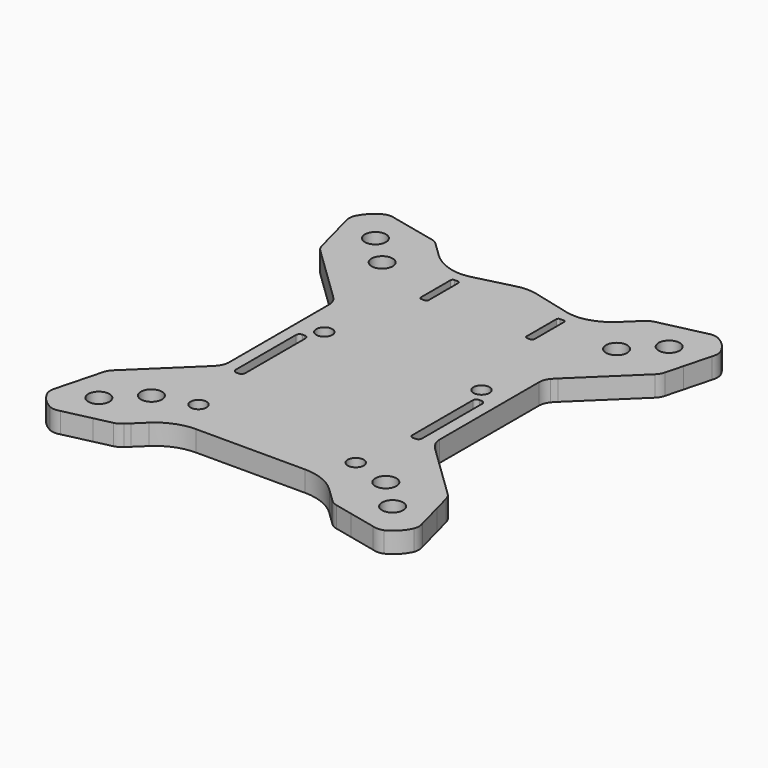
from build123d import *

# Parameters (mm, degrees)
F0_R     = 2.05
F0_R_2   = 1.55
F1_DEPTH = 4


with BuildPart() as f1:
    # F0 (on Top) → F1 (new body)
    with BuildSketch(Plane.XY):
        with BuildLine():
            ThreePointArc((20.225759, -40.726859), (20.88342, -41.207836), (21.646246, -41.494115))
            Line((21.646246, -41.494115), (25.044904, -42.264138))
            Line((25.044904, -42.264138), (30.325992, -43.460657))
            ThreePointArc((30.325992, -43.460657), (31.363938, -43.61615), (32.391927, -43.404607))
            ThreePointArc((32.391927, -43.404607), (34.248228, -42.031919), (35.554256, -40.128129))
            ThreePointArc((35.554256, -40.128129), (35.729228, -39.093288), (35.537043, -38.061505))
            Line((35.537043, -38.061505), (34.154086, -32.826147))
            Line((34.154086, -32.826147), (33.264079, -29.456918))
            ThreePointArc((33.264079, -29.456918), (32.950942, -28.704719), (32.446956, -28.06452))
            Line((32.446956, -28.06452), (21.831277, -17.818679))
            Line((21.831277, -17.818679), (21.048334, -16.865171))
            ThreePointArc((21.048334, -16.865171), (20.542366, -15.972423), (20.366866, -14.961383))
            Line((20.366866, -14.961383), (20.366866, 9.177489))
            ThreePointArc((20.366866, 9.177489), (20.542466, 10.188808), (21.04871, 11.081736))
            ThreePointArc((21.04871, 11.081736), (21.427756, 11.516935), (21.831277, 11.929542))
            Line((21.831277, 11.929542), (32.446956, 22.175383))
            ThreePointArc((32.446956, 22.175383), (32.950942, 22.815582), (33.264079, 23.567781))
            Line((33.264079, 23.567781), (34.154086, 26.93701))
            Line((34.154086, 26.93701), (35.537043, 32.172368))
            ThreePointArc((35.537043, 32.172368), (35.729228, 33.204151), (35.554256, 34.238992))
            ThreePointArc((35.554256, 34.238992), (34.248228, 36.142781), (32.391927, 37.515469))
            ThreePointArc((32.391927, 37.515469), (31.363938, 37.727013), (30.325992, 37.57152))
            Line((30.325992, 37.57152), (25.044904, 36.375001))
            Line((25.044904, 36.375001), (21.646246, 35.604977))
            ThreePointArc((21.646246, 35.604977), (20.88342, 35.318699), (20.225759, 34.837722))
            Line((20.225759, 34.837722), (19.467341, 34.105726))
            Line((19.467341, 34.105726), (17.506323, 32.213028))
            ThreePointArc((17.506323, 32.213028), (15.698461, 30.828478), (13.62424, 29.888823))
            ThreePointArc((13.62424, 29.888823), (11.43078, 29.508538), (9.217452, 29.74742))
            Line((9.217452, 29.74742), (1.956759, 31.578982))
            ThreePointArc((1.956759, 31.578982), (0, 31.821979), (-1.956759, 31.578982))
            Line((-1.956759, 31.578982), (-9.217452, 29.74742))
            ThreePointArc((-9.217452, 29.74742), (-11.43078, 29.508538), (-13.62424, 29.888823))
            ThreePointArc((-13.62424, 29.888823), (-15.698461, 30.828478), (-17.506323, 32.213028))
            Line((-17.506323, 32.213028), (-19.467341, 34.105726))
            Line((-19.467341, 34.105726), (-20.225759, 34.837722))
            ThreePointArc((-20.225759, 34.837722), (-20.88342, 35.318699), (-21.646246, 35.604977))
            Line((-21.646246, 35.604977), (-25.044904, 36.375001))
            Line((-25.044904, 36.375001), (-30.325992, 37.57152))
            ThreePointArc((-30.325992, 37.57152), (-31.363938, 37.727013), (-32.391927, 37.515469))
            ThreePointArc((-32.391927, 37.515469), (-34.248228, 36.142781), (-35.554256, 34.238992))
            ThreePointArc((-35.554256, 34.238992), (-35.729228, 33.204151), (-35.537043, 32.172368))
            Line((-35.537043, 32.172368), (-34.154086, 26.93701))
            Line((-34.154086, 26.93701), (-33.264079, 23.567781))
            ThreePointArc((-33.264079, 23.567781), (-32.950942, 22.815582), (-32.446956, 22.175383))
            Line((-32.446956, 22.175383), (-21.831277, 11.929542))
            ThreePointArc((-21.831277, 11.929542), (-21.427756, 11.516935), (-21.04871, 11.081736))
            ThreePointArc((-21.04871, 11.081736), (-20.542466, 10.188808), (-20.366866, 9.177489))
            Line((-20.366866, 9.177489), (-20.366866, -15.066626))
            ThreePointArc((-20.366866, -15.066626), (-20.542466, -16.077945), (-21.04871, -16.970873))
            ThreePointArc((-21.04871, -16.970873), (-21.427756, -17.406072), (-21.831277, -17.818679))
            Line((-21.831277, -17.818679), (-32.446956, -28.06452))
            ThreePointArc((-32.446956, -28.06452), (-32.950942, -28.704719), (-33.264079, -29.456918))
            Line((-33.264079, -29.456918), (-34.154086, -32.826147))
            Line((-34.154086, -32.826147), (-35.537043, -38.061505))
            ThreePointArc((-35.537043, -38.061505), (-35.729228, -39.093288), (-35.554256, -40.128129))
            ThreePointArc((-35.554256, -40.128129), (-34.248228, -42.031919), (-32.391927, -43.404607))
            ThreePointArc((-32.391927, -43.404607), (-31.363938, -43.61615), (-30.325992, -43.460657))
            Line((-30.325992, -43.460657), (-25.044904, -42.264138))
            Line((-25.044904, -42.264138), (-21.646246, -41.494115))
            ThreePointArc((-21.646246, -41.494115), (-20.88342, -41.207836), (-20.225759, -40.726859))
            Line((-20.225759, -40.726859), (-19.467341, -39.994863))
            Line((-19.467341, -39.994863), (-17.506323, -38.102165))
            ThreePointArc((-17.506323, -38.102165), (-14.306504, -36.02511), (-10.561704, -35.29746))
            Line((-10.561704, -35.29746), (10.561704, -35.29746))
            ThreePointArc((10.561704, -35.29746), (14.306504, -36.02511), (17.506323, -38.102165))
            Line((17.506323, -38.102165), (19.467341, -39.994863))
            Line((19.467341, -39.994863), (20.225759, -40.726859))
        make_face()
        with Locations((-28.491992, -36.476224)):
            Circle(F0_R, mode=Mode.SUBTRACT)
        with Locations((-22.735756, -30.920528)):
            Circle(F0_R, mode=Mode.SUBTRACT)
        with Locations((-15.321724, -28.768979)):
            Circle(F0_R_2, mode=Mode.SUBTRACT)
        with BuildLine():
            ThreePointArc((-16.233353, -16.307766), (-16.438378, -16.802741), (-16.933353, -17.007766))
            Line((-16.933353, -17.007766), (-17.371724, -17.007766))
            ThreePointArc((-17.371724, -17.007766), (-17.866699, -16.802741), (-18.071724, -16.307766))
            Line((-18.071724, -16.307766), (-18.071724, -1.707766))
            ThreePointArc((-18.071724, -1.707766), (-17.866699, -1.212792), (-17.371724, -1.007766))
            Line((-17.371724, -1.007766), (-16.933353, -1.007766))
            ThreePointArc((-16.933353, -1.007766), (-16.438378, -1.212792), (-16.233353, -1.707766))
            Line((-16.233353, -1.707766), (-16.233353, -16.307766))
        make_face(mode=Mode.SUBTRACT)
        with Locations((15.178276, -28.768979)):
            Circle(F0_R_2, mode=Mode.SUBTRACT)
        with Locations((28.491992, -36.476224)):
            Circle(F0_R, mode=Mode.SUBTRACT)
        with Locations((22.735756, -30.920528)):
            Circle(F0_R, mode=Mode.SUBTRACT)
        with BuildLine():
            Line((17.371724, -17.007766), (16.933353, -17.007766))
            ThreePointArc((16.933353, -17.007766), (16.438378, -16.802741), (16.233353, -16.307766))
            Line((16.233353, -16.307766), (16.233353, -1.707766))
            ThreePointArc((16.233353, -1.707766), (16.438378, -1.212792), (16.933353, -1.007766))
            Line((16.933353, -1.007766), (17.371724, -1.007766))
            ThreePointArc((17.371724, -1.007766), (17.866699, -1.212792), (18.071724, -1.707766))
            Line((18.071724, -1.707766), (18.071724, -16.307766))
            ThreePointArc((18.071724, -16.307766), (17.866699, -16.802741), (17.371724, -17.007766))
        make_face(mode=Mode.SUBTRACT)
        with Locations((-15.321724, 1.731021)):
            Circle(F0_R_2, mode=Mode.SUBTRACT)
        with Locations((-22.735756, 25.031391)):
            Circle(F0_R, mode=Mode.SUBTRACT)
        with Locations((-28.491992, 30.587086)):
            Circle(F0_R, mode=Mode.SUBTRACT)
        with BuildLine():
            Line((-10.6, 27.367114), (-9.9, 27.367114))
            ThreePointArc((-9.9, 27.367114), (-9.617157, 27.249957), (-9.5, 26.967114))
            Line((-9.5, 26.967114), (-9.5, 19.739609))
            ThreePointArc((-9.5, 19.739609), (-9.617157, 19.456766), (-9.9, 19.339609))
            Line((-9.9, 19.339609), (-10.6, 19.339609))
            ThreePointArc((-10.6, 19.339609), (-10.882843, 19.456766), (-11, 19.739609))
            Line((-11, 19.739609), (-11, 26.967114))
            ThreePointArc((-11, 26.967114), (-10.882843, 27.249957), (-10.6, 27.367114))
        make_face(mode=Mode.SUBTRACT)
        with Locations((15.178276, 1.731021)):
            Circle(F0_R_2, mode=Mode.SUBTRACT)
        with BuildLine():
            Line((9.5, 24.008841), (9.5, 26.967114))
            ThreePointArc((9.5, 26.967114), (9.617157, 27.249957), (9.9, 27.367114))
            Line((9.9, 27.367114), (10.6, 27.367114))
            ThreePointArc((10.6, 27.367114), (10.882843, 27.249957), (11, 26.967114))
            Line((11, 26.967114), (11, 19.739609))
            ThreePointArc((11, 19.739609), (10.882843, 19.456766), (10.6, 19.339609))
            Line((10.6, 19.339609), (9.9, 19.339609))
            ThreePointArc((9.9, 19.339609), (9.617157, 19.456766), (9.5, 19.739609))
            Line((9.5, 19.739609), (9.5, 24.008841))
        make_face(mode=Mode.SUBTRACT)
        with Locations((22.735756, 25.031391)):
            Circle(F0_R, mode=Mode.SUBTRACT)
        with Locations((28.491992, 30.587086)):
            Circle(F0_R, mode=Mode.SUBTRACT)
    extrude(amount=F1_DEPTH)


solid = f1.part
